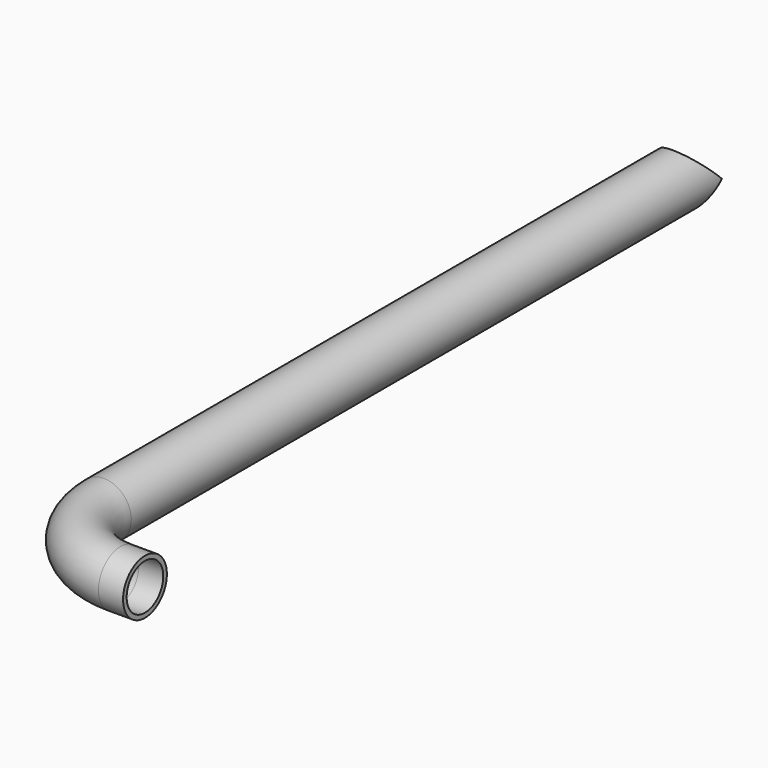
from build123d import *

# Parameters (mm, degrees)
F1_R          = 16.7
F1_R_2        = 13.932
F3_R          = 16.7
F4_DEPTH      = 25
F4_DEPTH_BACK = 25


with BuildPart() as f2:
    # F2: sweep along a path in F0
    with BuildLine(Plane.XY) as f2_path:
        Line((0, 0), (0, -450))
        ThreePointArc((0, -450), (14.6446609407, -485.3553390593), (50, -500))
        Line((50, -500), (65, -500))
    # F1 (on Front) → F2 (sweep)
    with BuildSketch(Plane.XZ):
        Circle(F1_R)
        Circle(F1_R_2, mode=Mode.SUBTRACT)
    sweep(path=f2_path.line)

    # F3 (on Top) → F4 (cut, two sides)
    with BuildSketch(Plane.XY) as f4_sk:
        Circle(F3_R)
    extrude(amount=-F4_DEPTH, mode=Mode.SUBTRACT)
    extrude(f4_sk.sketch, amount=F4_DEPTH_BACK, mode=Mode.SUBTRACT)


solid = f2.part
